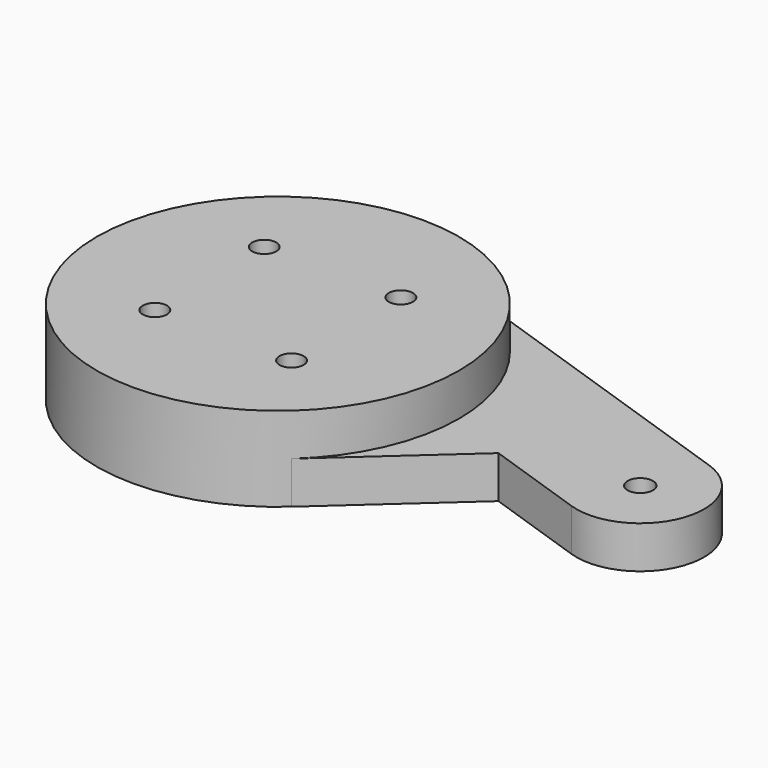
from build123d import *

# Parameters (mm, degrees)
SKETCH_R     = 1.05
PAD_DEPTH    = 3.5
SKETCH001_R  = 15
PAD001_DEPTH = 7
SKETCH002_R  = 1
POCKET_DEPTH = 10


with BuildPart() as part:
    # Sketch → Pad (new body)
    with BuildSketch(Plane.XY):
        with BuildLine():
            ThreePointArc((0, 15), (-14.003706, -5.375519), (10.036959, -11.147172))
            Line((10.036959, -11.147172), (20, -2.17641))
            Line((20, -2.17641), (28.298795, -5))
            ThreePointArc((28.298795, -5), (35, -1.701205), (31.701205, 5))
            Line((2.310268, 15), (31.701205, 5))
            Line((0, 15), (2.310268, 15))
        make_face()
        with Locations((30, 0)):
            Circle(SKETCH_R, mode=Mode.SUBTRACT)
    extrude(amount=PAD_DEPTH)

    # Sketch001 → Pad001 (join)
    with BuildSketch(Plane.XY):
        Circle(SKETCH001_R)
    extrude(amount=PAD001_DEPTH)

    # Sketch002 → Pocket (cut)
    with BuildSketch(Plane.XY):
        with Locations((-5.656854, 5.656854)):
            Circle(SKETCH002_R)
        with Locations((5.656854, 5.656854)):
            Circle(SKETCH002_R)
        with Locations((5.656854, -5.656854)):
            Circle(SKETCH002_R)
        with Locations((-5.656854, -5.656854)):
            Circle(SKETCH002_R)
    extrude(amount=POCKET_DEPTH, mode=Mode.SUBTRACT)


solid = part.part
